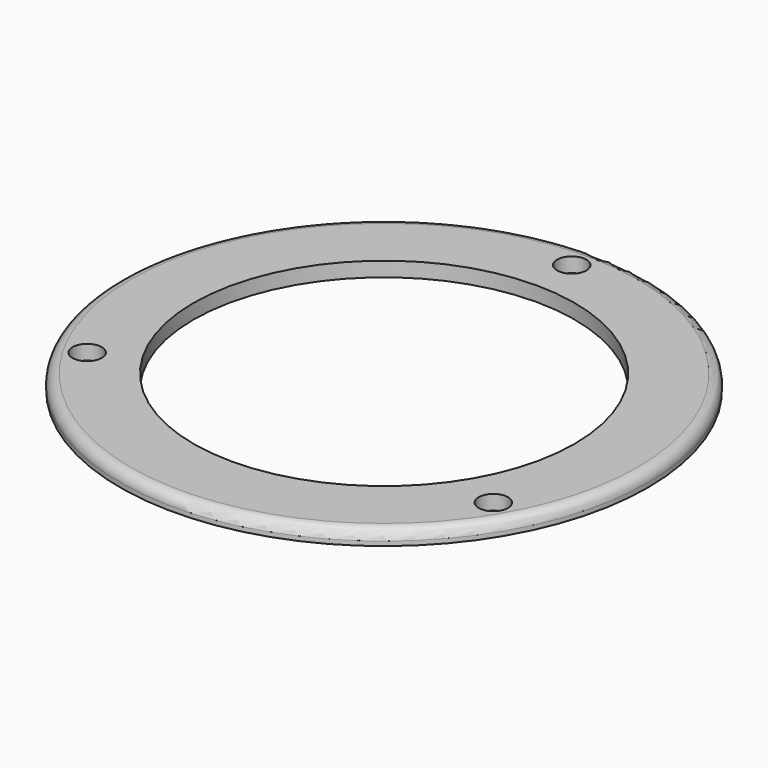
from build123d import *

# Parameters (mm, degrees)
CYLINDER005_R     = 2
CYLINDER005_DEPTH = 10
CYLINDER006_R     = 2
CYLINDER006_DEPTH = 10
CYLINDER007_R     = 2
CYLINDER007_DEPTH = 10
CYLINDER001_R     = 26
CYLINDER001_DEPTH = 10
CYLINDER_R        = 36
CYLINDER_DEPTH    = 2
FILLET_R          = 1.4


with BuildPart() as cylinder005:
    # Cylinder005 → Cylinder005 (new body)
    with BuildSketch(Plane(origin=(0, 32, 0), x_dir=(1, 0, 0), z_dir=(0, 0, 1))):
        Circle(CYLINDER005_R)
    extrude(amount=CYLINDER005_DEPTH)


with BuildPart() as cylinder006:
    # Cylinder006 → Cylinder006 (new body)
    with BuildSketch(Plane(origin=(-27.7, -16, 0), x_dir=(1, 0, 0), z_dir=(0, 0, 1))):
        Circle(CYLINDER006_R)
    extrude(amount=CYLINDER006_DEPTH)


with BuildPart() as fusion:
    # Cylinder007 → Cylinder007 (new body)
    with BuildSketch(Plane(origin=(27.7, -16, 0), x_dir=(1, 0, 0), z_dir=(0, 0, 1))):
        Circle(CYLINDER007_R)
    extrude(amount=CYLINDER007_DEPTH)

    # Fusion: union Cylinder005, Cylinder006
    add(cylinder005.part)
    add(cylinder006.part)


with BuildPart() as cylinder001:
    # Cylinder001 → Cylinder001 (new body)
    with BuildSketch(Plane.XY):
        Circle(CYLINDER001_R)
    extrude(amount=CYLINDER001_DEPTH)


with BuildPart() as f_2in_ring:
    # Cylinder → Cylinder (new body)
    with BuildSketch(Plane.XY):
        Circle(CYLINDER_R)
    extrude(amount=CYLINDER_DEPTH)

    # Cut: cut Cylinder001
    add(cylinder001.part, mode=Mode.SUBTRACT)

    # Cut001: cut Fusion
    add(fusion.part, mode=Mode.SUBTRACT)

    # Fillet
    fillet_edges = [f_2in_ring.edges().sort_by_distance(p)[0] for p in [
        (-36, 0, 2),
    ]]
    fillet(fillet_edges, radius=FILLET_R)


solid = f_2in_ring.part
